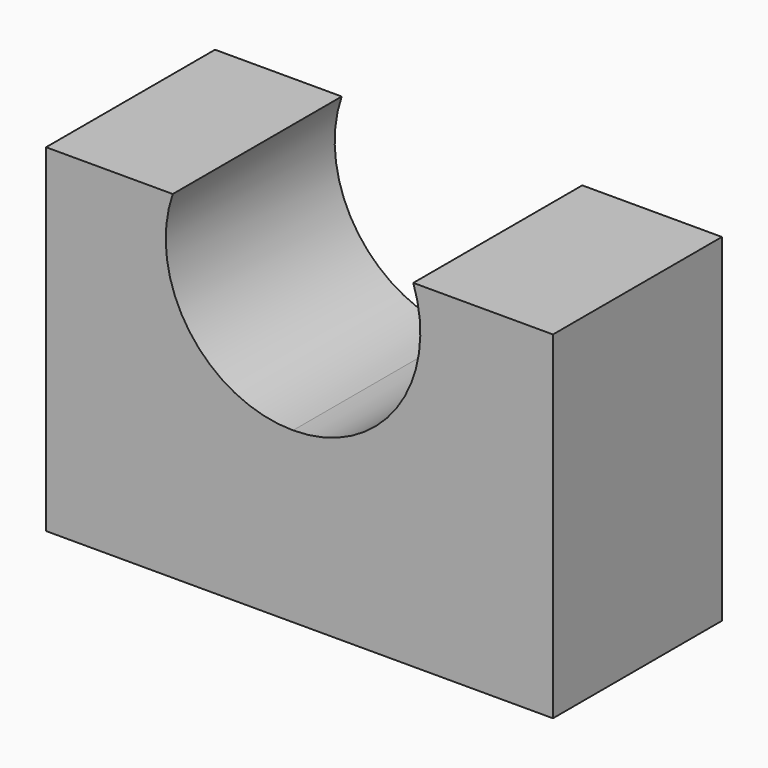
from build123d import *

# Parameters (mm, degrees)
F0_W     = 20
F0_H     = 20
F1_DEPTH = 12.5


with BuildPart() as f1:
    # F0 (on Front) → F1 (new body, symmetric)
    with BuildSketch(Plane.XZ):
        with Locations((-19.847408, 10)):
            Rectangle(F0_W, F0_H)
        Polygon((-9.847408, 20), (-9.847408, 0), (10.152592, 0), (10.152592, 20), (-0.615767, 20), align=None)
        with BuildLine():
            Line((-29.847408, 40), (-29.847408, 20))
            Line((-29.847408, 20), (-9.847408, 20))
            Line((-9.847408, 20), (-0.615767, 20))
            ThreePointArc((-0.615767, 20), (-12.890606, 26.329441), (-14.852573, 40))
            Line((-14.852573, 40), (-29.847408, 40))
        make_face()
        with Locations((20.152592, 10)):
            Rectangle(F0_W, F0_H)
        with BuildLine():
            Line((-0.615767, 20), (10.152592, 20))
            Line((10.152592, 20), (30.152592, 20))
            Line((30.152592, 20), (30.152592, 40))
            Line((30.152592, 40), (13.621039, 40))
            ThreePointArc((13.621039, 40), (11.659072, 26.329441), (-0.615767, 20))
        make_face()
    extrude(amount=F1_DEPTH, both=True)


solid = f1.part
